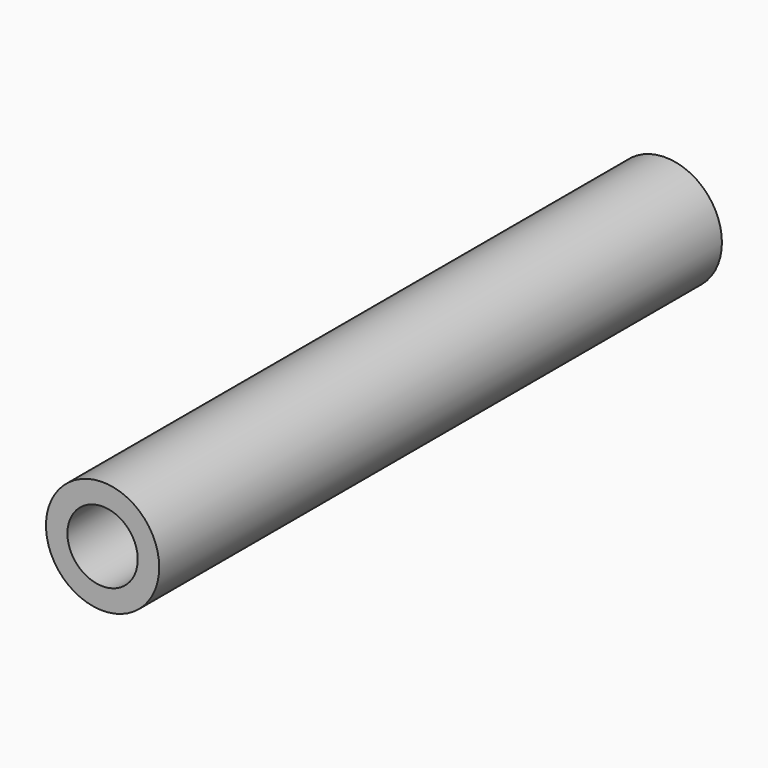
from build123d import *

# Parameters (mm, degrees)
F0_R           = 20.446155
F1_DEPTH       = 254
F2_D           = 25.4
F2_CBORE_D     = 25.4
F2_CBORE_DEPTH = 25.4


with BuildPart() as f1:
    # F0 (on Front) → F1 (new body)
    with BuildSketch(Plane.XZ):
        Circle(F0_R)
    extrude(amount=F1_DEPTH)

    # F2 (through all)
    with Locations(Plane(origin=(0, 0, 0), x_dir=(1, 0, 0), z_dir=(0, 1, 0))):
        with Locations((0, 0)):
            CounterBoreHole(F2_D / 2, F2_CBORE_D / 2, F2_CBORE_DEPTH)


solid = f1.part
